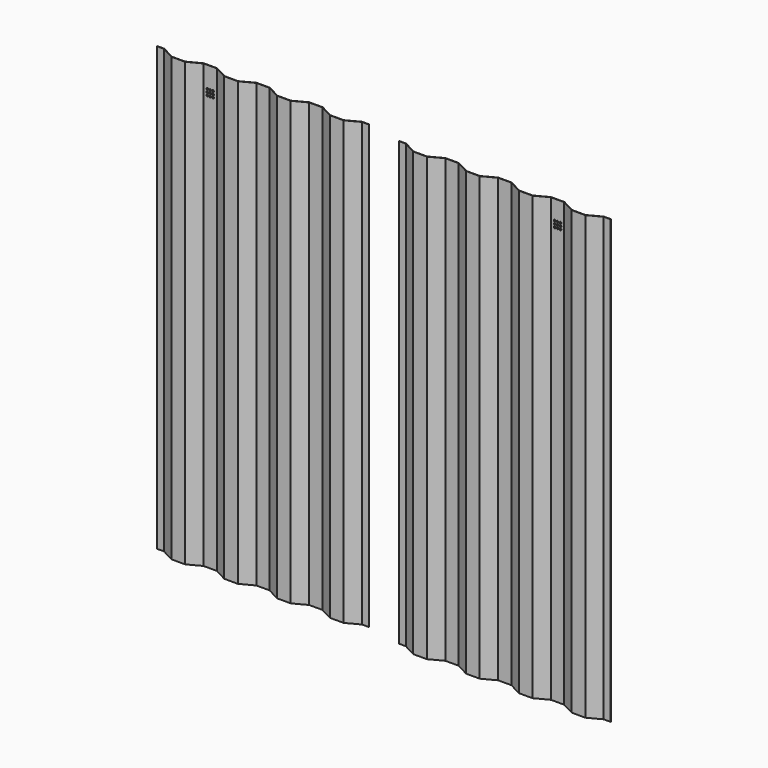
from build123d import *

# Parameters (mm, degrees)
F1_DEPTH = 2329
F3_D     = 10
F5_DEPTH = 2329
F7_D     = 10


with BuildPart() as f1:
    # F0 (on Top) → F1 (new body)
    with BuildSketch(Plane.XY):
        Polygon((0, 2), (0, 0), (37, 0), (105, -36), (177, -36), (245, 0), (315, 0), (383, -36), (455, -36), (523, 0), (593, 0), (661, -36), (733, -36), (801, 0), (871, 0), (939, -36), (1011, -36), (1079, 0), (1116, 0), (1116, 2), (1078.503248, 2), (1010.503248, -34), (939.496752, -34), (871.496752, 2), (800.503248, 2), (732.503248, -34), (661.496752, -34), (593.496752, 2), (522.503248, 2), (454.503248, -34), (383.496752, -34), (315.496752, 2), (244.503248, 2), (176.503248, -34), (105.496752, -34), (37.496752, 2), align=None)
    extrude(amount=F1_DEPTH)

    # F3 (through all)
    with Locations(Plane.XZ):
        with Locations((836, 2227), (851, 2227), (851, 2211.999893), (836, 2211.999893), (821, 2197.000027), (836, 2197.000027), (851, 2197.000027), (821, 2211.999893), (821, 2227)):
            Hole(F3_D / 2)


with BuildPart() as f5:
    # F4 (on Top) → F5 (new body)
    with BuildSketch(Plane.XY):
        Polygon((-1303.605286, 40.272888), (-1303.605286, 38.272888), (-1266.605286, 38.272888), (-1198.605286, 2.272888), (-1126.605286, 2.272888), (-1058.605286, 38.272888), (-988.605286, 38.272888), (-920.605286, 2.272888), (-848.605286, 2.272888), (-780.605286, 38.272888), (-710.605286, 38.272888), (-642.605286, 2.272888), (-570.605286, 2.272888), (-502.605286, 38.272888), (-432.605286, 38.272888), (-364.605286, 2.272888), (-292.605286, 2.272888), (-224.605286, 38.272888), (-187.605286, 38.272888), (-187.605286, 40.272888), (-225.102038, 40.272888), (-293.102038, 4.272888), (-364.108534, 4.272888), (-432.108534, 40.272888), (-503.102038, 40.272888), (-571.102038, 4.272888), (-642.108534, 4.272888), (-710.108534, 40.272888), (-781.102038, 40.272888), (-849.102038, 4.272888), (-920.108534, 4.272888), (-988.108534, 40.272888), (-1059.102038, 40.272888), (-1127.102038, 4.272888), (-1198.108534, 4.272888), (-1266.108534, 40.272888), align=None)
    extrude(amount=F5_DEPTH)

    # F7 (through all)
    with Locations(Plane.XZ.offset(-38.272888)):
        with Locations((-1038.605286, 2217), (-1023.605286, 2217), (-1008.605286, 2217), (-1008.605286, 2202), (-1023.605286, 2202), (-1038.605286, 2202), (-1038.605286, 2187), (-1023.605286, 2187), (-1008.605286, 2187)):
            Hole(F7_D / 2)


solid = Compound([f1.part, f5.part])
